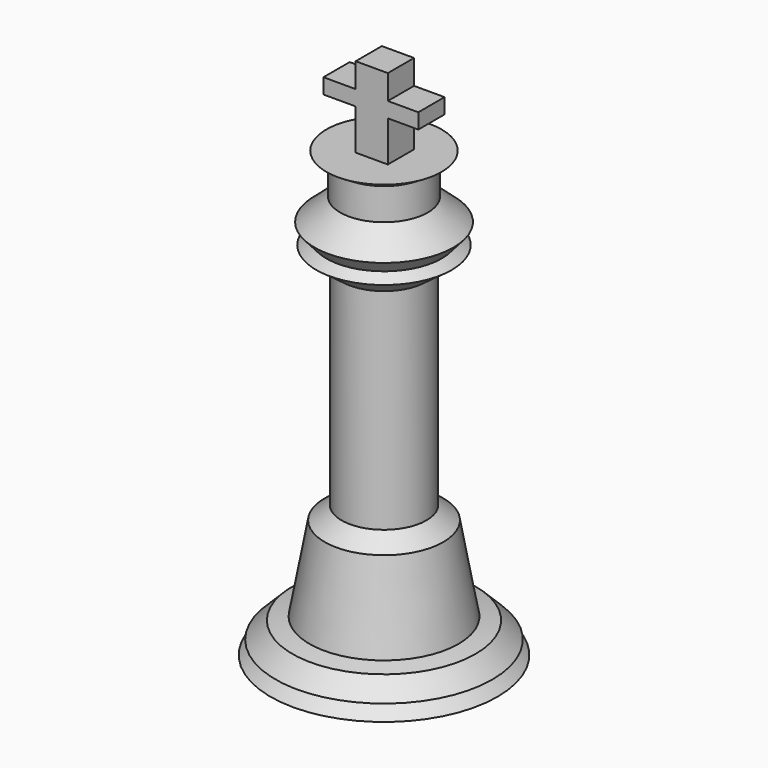
from build123d import *

# Parameters (mm, degrees)
F2_W          = 5.8907500934
F2_H          = 8.2262121141
F2_W_2        = 5.8907486964
F2_H_2        = 2.7903579175
F2_W_3        = 5.5807074532
F2_H_3        = 4.4920817018
F3_DEPTH      = 3
F3_DEPTH_BACK = 3


with BuildPart() as f1:
    # F0 (on Front) → F1 (revolve)
    with BuildSketch(Plane.XZ):
        Polygon((0, 36.2746082246), (0, -44.9557118118), (20.7726415247, -44.9557118118), (17.3622015864, -41.8553166091), (19.8425240815, -42.4753949046), (16.7421232909, -39.3750034273), (13.6417308822, -38.7549214065), (10.85137669, -23.2529547065), (7.7509838156, -20.7726377994), (7.7509838156, 17.6722444594), (12.40157336, 21.0826769471), (10.5413375422, 22.3228372633), (12.7116125077, 24.8031504452), (8.0143798943, 28.9132307457), (8.0143798943, 34.7244106233), (10.5413375422, 36.2746082246), align=None)
    revolve(axis=Axis((0, 0, -4.3405517936), (0, 0, -1)))


with BuildPart() as f3:
    # F2 (on Front) → F3 (new body, two sides)
    with BuildSketch(Plane.XZ) as f3_sk:
        with Locations((0.1550201559, 39.6024454385)):
            Rectangle(F2_W, F2_H)
        with Locations((-5.7357292389, 45.1107304543)):
            Rectangle(F2_W_2, F2_H_2)
        with Locations((0.1550201559, 45.1107304543)):
            Rectangle(F2_W, F2_H_2)
        with Locations((5.8907489292, 45.1107304543)):
            Rectangle(F2_W_3, F2_H_2)
        with Locations((0.1550201559, 48.751950264)):
            Rectangle(F2_W, F2_H_3)
    extrude(amount=F3_DEPTH)
    extrude(f3_sk.sketch, amount=-F3_DEPTH_BACK)


solid = Compound([f1.part, f3.part])
